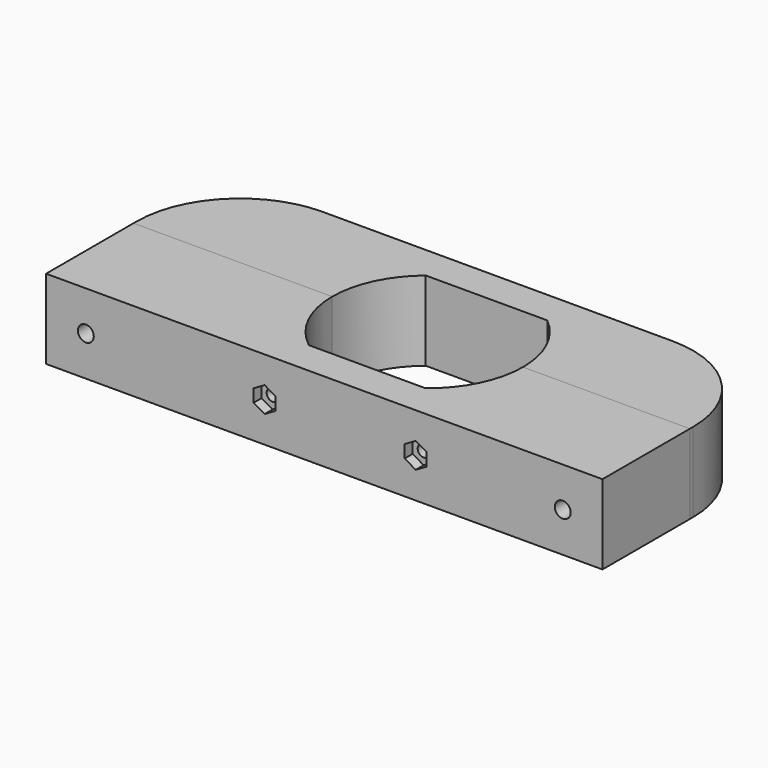
from build123d import *

# Parameters (mm, degrees)
PAD002_DEPTH              = 2.5
CYLINDER005_R             = 2.8
CYLINDER005_DEPTH         = 15
CYLINDER004_R             = 1.5
CYLINDER004_DEPTH         = 8.5
FUSION002_PLACEMENT_ANGLE = 90
PAD001_DEPTH              = 2.5
CYLINDER003_R             = 2.8
CYLINDER003_DEPTH         = 15
CYLINDER002_R             = 1.5
CYLINDER002_DEPTH         = 8.5
FUSION001_PLACEMENT_ANGLE = 90
CYLINDER001_R             = 2
CYLINDER001_DEPTH         = 27.5
CYLINDER_R                = 2
CYLINDER_DEPTH            = 27.5
PAD_DEPTH                 = 10
CYLINDER008_R             = 2
CYLINDER008_DEPTH         = 5
CYLINDER009_R             = 3.5
CYLINDER009_DEPTH         = 20
CYLINDER006_R             = 2
CYLINDER006_DEPTH         = 5
CYLINDER007_R             = 3.5
CYLINDER007_DEPTH         = 20
PAD003_DEPTH              = 10


with BuildPart() as body002:
    # Sketch002 → Pad002 (new body)
    with BuildSketch(Plane.XY):
        Polygon((0, -3.2), (2.771281, -1.6), (2.771281, 1.6), (0, 3.2), (-2.771281, 1.6), (-2.771281, -1.6), align=None)
    extrude(amount=PAD002_DEPTH)


with BuildPart() as cylinder005:
    # Cylinder005 → Cylinder005 (new body)
    with BuildSketch(Plane.XY.offset(5.5)):
        Circle(CYLINDER005_R)
    extrude(amount=CYLINDER005_DEPTH)


with BuildPart() as fusion002:
    # Cylinder004 → Cylinder004 (new body)
    with BuildSketch(Plane.XY):
        Circle(CYLINDER004_R)
    extrude(amount=CYLINDER004_DEPTH)

    # Fusion002: union Body002, Cylinder005
    add(body002.part)
    add(cylinder005.part)


with BuildPart() as fusion002_1:
    # Fusion002 placement: moved
    add(fusion002.part.moved(Location((93, 0, 0))).rotate(Axis((93, 0, 0), (-1, 0, 0)), FUSION002_PLACEMENT_ANGLE))


with BuildPart() as body001:
    # Sketch001 → Pad001 (new body)
    with BuildSketch(Plane.XY):
        Polygon((0, -3.2), (2.771281, -1.6), (2.771281, 1.6), (0, 3.2), (-2.771281, 1.6), (-2.771281, -1.6), align=None)
    extrude(amount=PAD001_DEPTH)


with BuildPart() as cylinder003:
    # Cylinder003 → Cylinder003 (new body)
    with BuildSketch(Plane.XY.offset(5.5)):
        Circle(CYLINDER003_R)
    extrude(amount=CYLINDER003_DEPTH)


with BuildPart() as fusion003:
    # Cylinder002 → Cylinder002 (new body)
    with BuildSketch(Plane.XY):
        Circle(CYLINDER002_R)
    extrude(amount=CYLINDER002_DEPTH)

    # Fusion001: union Body001, Cylinder003
    add(body001.part)
    add(cylinder003.part)


with BuildPart() as fusion003_1:
    # Fusion001 placement: moved
    add(fusion003.part.moved(Location((55, 0, 0))).rotate(Axis((55, 0, 0), (-1, 0, 0)), FUSION001_PLACEMENT_ANGLE))

    # Fusion003: union Fusion002
    add(fusion002_1.part)


with BuildPart() as cylinder001:
    # Cylinder001 → Cylinder001 (new body)
    with BuildSketch(Plane(origin=(130, 0, 0), x_dir=(1, 0, 0), z_dir=(0, 1, 0))):
        Circle(CYLINDER001_R)
    extrude(amount=CYLINDER001_DEPTH)


with BuildPart() as fusion:
    # Cylinder → Cylinder (new body)
    with BuildSketch(Plane(origin=(10, 0, 0), x_dir=(1, 0, 0), z_dir=(0, 1, 0))):
        Circle(CYLINDER_R)
    extrude(amount=CYLINDER_DEPTH)

    # Fusion: union Cylinder001
    add(cylinder001.part)


with BuildPart() as cut001:
    # Sketch (on Sketch) → Pad (new body, symmetric)
    with BuildSketch(Plane.XY):
        with BuildLine():
            Line((140, 0), (0, 0))
            Line((0, 0), (0, 27.499991))
            Line((0, 27.499991), (50, 27.499991))
            ThreePointArc((50, 27.499991), (52.460398, 16.914843), (59.337122, 8.5))
            Line((59.337122, 8.5), (88.662878, 8.5))
            ThreePointArc((88.662878, 8.5), (95.539604, 16.914847), (98, 27.5))
            Line((140, 27.5), (98, 27.5))
            Line((140, 27.5), (140, 0))
        make_face()
    extrude(amount=PAD_DEPTH, both=True)

    # Cut: cut Fusion
    add(fusion.part, mode=Mode.SUBTRACT)

    # Cut001: cut Fusion003
    add(fusion003_1.part, mode=Mode.SUBTRACT)


with BuildPart() as cut001_1:
    # Cut001 placement: moved
    add(cut001.part.moved(Location((0, -27.5, 0))))


with BuildPart() as cylinder008:
    # Cylinder008 → Cylinder008 (new body)
    with BuildSketch(Plane(origin=(10, 0, 0), x_dir=(1, 0, 0), z_dir=(0, 1, 0))):
        Circle(CYLINDER008_R)
    extrude(amount=CYLINDER008_DEPTH)


with BuildPart() as fusion005:
    # Cylinder009 → Cylinder009 (new body)
    with BuildSketch(Plane(origin=(10, 5, 0), x_dir=(1, 0, 0), z_dir=(0, 1, 0))):
        Circle(CYLINDER009_R)
    extrude(amount=CYLINDER009_DEPTH)

    # Fusion005: union Cylinder008
    add(cylinder008.part)


with BuildPart() as fusion005_1:
    # Fusion005 placement: moved
    add(fusion005.part.moved(Location((120, 0, 0))))


with BuildPart() as cylinder006:
    # Cylinder006 → Cylinder006 (new body)
    with BuildSketch(Plane(origin=(10, 0, 0), x_dir=(1, 0, 0), z_dir=(0, 1, 0))):
        Circle(CYLINDER006_R)
    extrude(amount=CYLINDER006_DEPTH)


with BuildPart() as fusion006:
    # Cylinder007 → Cylinder007 (new body)
    with BuildSketch(Plane(origin=(10, 5, 0), x_dir=(1, 0, 0), z_dir=(0, 1, 0))):
        Circle(CYLINDER007_R)
    extrude(amount=CYLINDER007_DEPTH)

    # Fusion004: union Cylinder006
    add(cylinder006.part)

    # Fusion006: union Fusion005
    add(fusion005_1.part)


with BuildPart() as cut002:
    # CopySketch003 → Pad003 (new body, symmetric)
    with BuildSketch(Plane.XY):
        with BuildLine():
            Line((0, 0), (0, 1))
            ThreePointArc((26, 27), (7.615224, 19.384776), (0, 1))
            Line((26, 27), (114, 27))
            ThreePointArc((140, 1), (132.384776, 19.384776), (114, 27))
            Line((140, 1), (140, 0))
            Line((140, 0), (98, 0))
            ThreePointArc((98, 0), (95.719672, 10.219387), (89.311299, 18.5))
            Line((58.733679, 18.5), (89.311299, 18.5))
            ThreePointArc((58.733679, 18.5), (52.293153, 10.228968), (50, 0))
            Line((50, 0), (0, 0))
        make_face()
    extrude(amount=PAD003_DEPTH, both=True)

    # Cut002: cut Fusion006
    add(fusion006.part, mode=Mode.SUBTRACT)


solid = Compound([cut001_1.part, cut002.part])
